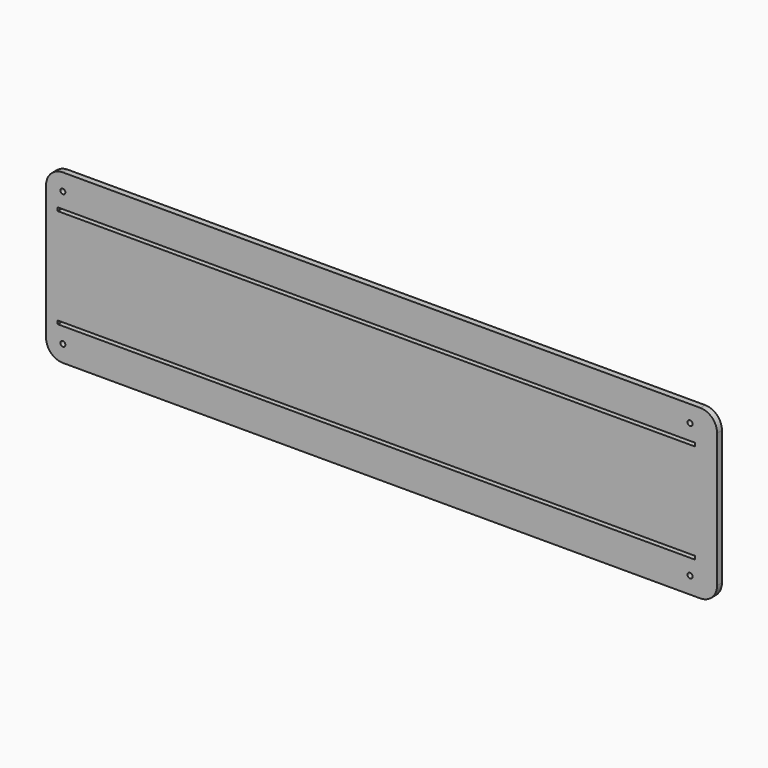
from build123d import *

# Parameters (mm, degrees)
F0_R     = 7.5
F0_W     = 1900
F0_H     = 10
F1_DEPTH = 18


with BuildPart() as f1:
    # F0 (on Front) → F1 (new body)
    with BuildSketch(Plane.XZ):
        with BuildLine():
            Line((965.260317, 250), (-934.739683, 250))
            ThreePointArc((-934.739683, 250), (-970.095022, 235.355339), (-984.739683, 200))
            Line((-984.739683, 200), (-984.739683, -200))
            ThreePointArc((-984.739683, -200), (-970.095022, -235.355339), (-934.739683, -250))
            Line((-934.739683, -250), (965.260317, -250))
            ThreePointArc((965.260317, -250), (1000.615656, -235.355339), (1015.260317, -200))
            Line((1015.260317, -200), (1015.260317, 200))
            ThreePointArc((1015.260317, 200), (1000.615656, 235.355339), (965.260317, 250))
        make_face()
        with Locations((-934.739683, -200)):
            Circle(F0_R, mode=Mode.SUBTRACT)
        with Locations((0, -148.413469)):
            Rectangle(F0_W, F0_H, mode=Mode.SUBTRACT)
        with Locations((934.739683, -200)):
            Circle(F0_R, mode=Mode.SUBTRACT)
        with Locations((-934.739683, 200)):
            Circle(F0_R, mode=Mode.SUBTRACT)
        with Locations((0, 148.413469)):
            Rectangle(F0_W, F0_H, mode=Mode.SUBTRACT)
        with Locations((934.739683, 200)):
            Circle(F0_R, mode=Mode.SUBTRACT)
    extrude(amount=F1_DEPTH)


solid = f1.part
